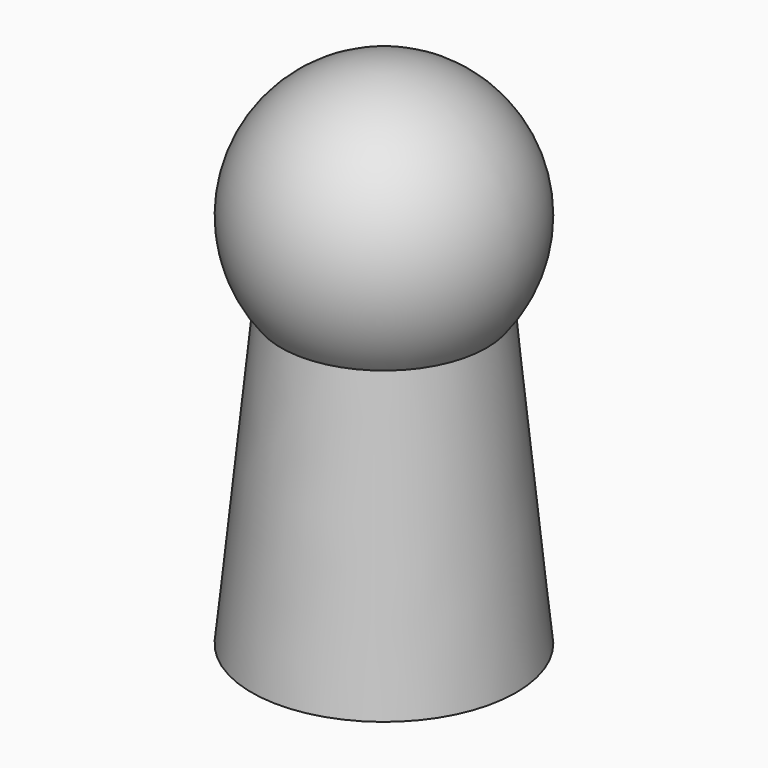
from build123d import *


with BuildPart() as part:
    # Sketch → Revolution (revolve)
    with BuildSketch(Plane.XZ):
        with BuildLine():
            Line((1.4, 0), (4.5, 0))
            Line((4.5, 0), (3.5, 10))
            ThreePointArc((3.5, 10), (4.06066, 14.767767), (0, 17.328427))
            Line((0, 10), (0, 17.328427))
            Line((1.4, 10), (0, 10))
            Line((1.4, 0), (1.4, 10))
        make_face()
    revolve(axis=Axis((0, 0, 0), (0, 0, 1)))


solid = part.part
